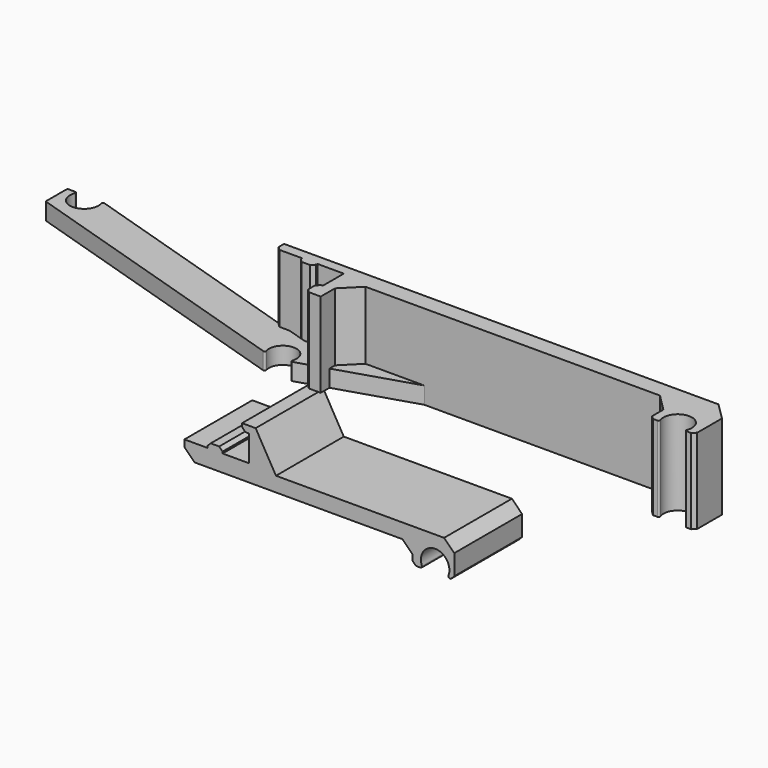
from build123d import *

# Parameters (mm, degrees)
F2_DEPTH  = 25
F3_SIZE   = 1
F4_SIZE   = 3
F6_DEPTH  = 25
F7_SIZE   = 1
F8_SIZE   = 5
F9_R      = 0.4
F9_2_R    = 0.4
F11_DEPTH = 5
F12_R     = 0.4


with BuildPart() as f2:
    # F1 (on Front) → F2 (new body)
    with BuildSketch(Plane.XZ):
        with BuildLine():
            Line((8, -0.25), (8, -2.25))
            Line((8, -2.25), (10, -2.25))
            Line((10, -2.25), (10, -10))
            Line((10, -10), (2.25, -10))
            Line((2.25, -10), (2.25, -8.5))
            Line((2.25, -8.5), (-2.25, -8.5))
            Line((-2.25, -8.5), (-2.25, -10))
            Line((-2.25, -10), (-9, -10))
            Line((-9, -10), (-9, -15))
            Line((-9, -15), (58.312693, -15))
            Line((58.312693, -15), (58.312693, -20.65))
            Line((58.312693, -20.65), (61.312693, -20.65))
            ThreePointArc((61.312693, -20.65), (63.86296, -14.493112), (69.15, -18.55))
            ThreePointArc((69.15, -18.55), (69.006888, -19.63704), (68.587307, -20.65))
            Line((68.587307, -20.65), (70.587307, -20.65))
            Line((70.587307, -20.65), (70.587307, -10.65))
            Line((70.587307, -10.65), (18.004443, -10.65))
            Line((18.004443, -10.65), (12, -0.25))
            Line((12, -0.25), (8, -0.25))
        make_face()
    extrude(amount=F2_DEPTH)

    # F3
    f3_edges = [f2.edges().sort_by_distance(p)[0] for p in [
        (-2.25, -12.5, -8.5),
        (2.25, -12.5, -8.5),
        (8, -12.5, -2.25),
        (58.312693, -12.5, -20.65),
        (70.587307, -12.5, -20.65),
    ]]
    chamfer(f3_edges, length=F3_SIZE)

    # F4
    f4_edges = [f2.edges().sort_by_distance(p)[0] for p in [
        (-9, -12.5, -15),
        (58.312693, -12.5, -15),
        (70.587307, -12.5, -10.65),
    ]]
    chamfer(f4_edges, length=F4_SIZE)

    # F9
    f9_edges = [f2.edges().sort_by_distance(p)[0] for p in [
        (61.312693, -12.5, -20.65),
        (68.587307, -12.5, -20.65),
    ]]
    fillet(f9_edges, radius=F9_R)


with BuildPart() as f6:
    # F5 (on Top) → F6 (new body)
    with BuildSketch(Plane.XY):
        with BuildLine():
            ThreePointArc((112.862693, -2.1), (115.41296, 4.056888), (120.7, 0))
            ThreePointArc((120.7, 0), (120.556888, -1.08704), (120.137307, -2.1))
            Line((120.137307, -2.1), (123.137307, -2.1))
            Line((123.137307, -2.1), (123.137307, 13))
            Line((123.137307, 13), (-10, 13))
            Line((-10, 13), (-10, 10))
            Line((-10, 10), (-2.25, 10))
            Line((-2.25, 10), (-2.25, 8.5))
            Line((-2.25, 8.5), (2.25, 8.5))
            Line((2.25, 8.5), (2.25, 10))
            Line((2.25, 10), (10, 10))
            Line((10, 10), (10, 2.25))
            Line((10, 2.25), (8.5, 2.25))
            Line((8.5, 2.25), (8.5, -2.25))
            Line((8.5, -2.25), (10, -2.25))
            Line((10, -2.25), (13, -2.25))
            Line((13, -2.25), (13, 8))
            Line((13, 8), (109.862693, 8))
            Line((109.862693, 8), (109.862693, -2.1))
            Line((109.862693, -2.1), (112.862693, -2.1))
        make_face()
    extrude(amount=F6_DEPTH)

    # F7
    f7_edges = [f6.edges().sort_by_distance(p)[0] for p in [
        (8.5, 2.25, 12.5),
        (8.5, -2.25, 12.5),
        (-2.25, 8.5, 12.5),
        (2.25, 8.5, 12.5),
        (-10, 10, 12.5),
        (109.862693, -2.1, 12.5),
        (123.137307, -2.1, 12.5),
    ]]
    chamfer(f7_edges, length=F7_SIZE)

    # F8
    f8_edges = [f6.edges().sort_by_distance(p)[0] for p in [
        (123.137307, 13, 12.5),
        (109.862693, 8, 12.5),
        (13, 8, 12.5),
    ]]
    chamfer(f8_edges, length=F8_SIZE)

    # F9#2
    f9_2_edges = [f6.edges().sort_by_distance(p)[0] for p in [
        (112.862693, -2.1, 12.5),
        (120.137307, -2.1, 12.5),
    ]]
    fillet(f9_2_edges, radius=F9_2_R)


with BuildPart() as f11:
    # F10 (on Top) → F11 (new body)
    with BuildSketch(Plane.XY):
        with BuildLine():
            ThreePointArc((-3.507403, -2.025), (-1.048217, 3.912), (4.05, 0))
            ThreePointArc((4.05, 0), (3.912, -1.048217), (3.507403, -2.025))
            Line((3.507403, -2.025), (90.137307, 25.25))
            Line((90.137307, 25.25), (90.137307, 33.25))
            Line((90.137307, 33.25), (87.137307, 33.25))
            ThreePointArc((87.137307, 33.25), (87.556888, 32.23704), (87.7, 31.15))
            ThreePointArc((87.7, 31.15), (82.41296, 27.093112), (79.862693, 33.25))
            Line((79.862693, 33.25), (0, 8.105623))
            Line((0, 8.105623), (-79.862693, 33.25))
            ThreePointArc((-79.862693, 33.25), (-79.443112, 32.23704), (-79.3, 31.15))
            ThreePointArc((-79.3, 31.15), (-84.58704, 27.093112), (-87.137307, 33.25))
            Line((-87.137307, 33.25), (-90.137307, 33.25))
            Line((-90.137307, 33.25), (-90.137307, 25.25))
            Line((-90.137307, 25.25), (-3.507403, -2.025))
        make_face()
    extrude(amount=F11_DEPTH)

    # F12
    f12_edges = [f11.edges().sort_by_distance(p)[0] for p in [
        (-3.507403, -2.025, 2.5),
        (3.507403, -2.025, 2.5),
        (0, 8.105623, 2.5),
        (79.862693, 33.25, 2.5),
        (87.137307, 33.25, 2.5),
        (90.137307, 33.25, 2.5),
        (90.137307, 25.25, 2.5),
        (-90.137307, 33.25, 2.5),
        (-90.137307, 25.25, 2.5),
        (-79.862693, 33.25, 2.5),
        (-87.137307, 33.25, 2.5),
    ]]
    fillet(f12_edges, radius=F12_R)


solid = Compound([f2.part, f6.part, f11.part])
